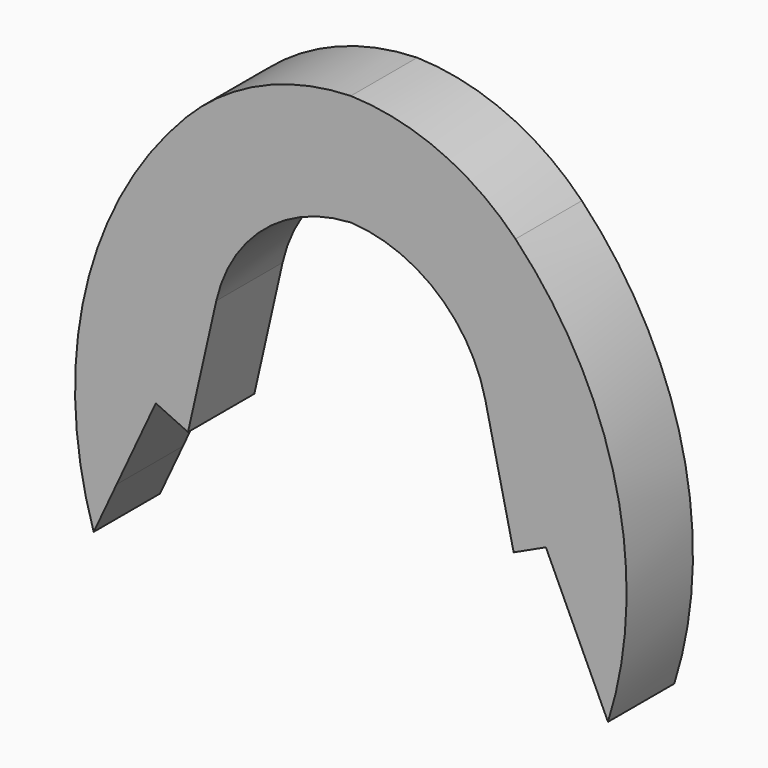
from build123d import *

# Parameters (mm, degrees)
F1_DEPTH = 44.45


with BuildPart() as f1:
    # F0 (on Front) → F1 (new body)
    with BuildSketch(Plane.XZ):
        with BuildLine():
            Line((-151.677966, -99.616145), (-139.392035, -73.201393))
            Line((-139.392035, -73.201393), (-118.382267, -28.030393))
            Line((-118.382267, -28.030393), (-101.10923, -36.064363))
            Line((-101.10923, -36.064363), (-85.963187, 30.797451))
            ThreePointArc((-85.963187, 30.797451), (-60.089526, 73.177661), (-13.831109, 91.224468))
            ThreePointArc((-13.831109, 91.224468), (32.427309, 73.177661), (58.300969, 30.797451))
            Line((58.300969, 30.797451), (73.447012, -36.064363))
            Line((73.447012, -36.064363), (90.720049, -28.030393))
            Line((90.720049, -28.030393), (111.729817, -73.201393))
            Line((111.729817, -73.201393), (124.015748, -99.616145))
            ThreePointArc((124.015748, -99.616145), (128.404708, 13.099114), (74.440966, 112.154185))
            ThreePointArc((74.440966, 112.154185), (34.109208, 140.212785), (-13.831109, 150.967401))
            ThreePointArc((-13.831109, 150.967401), (-61.771425, 140.212785), (-102.103183, 112.154185))
            ThreePointArc((-102.103183, 112.154185), (-156.066925, 13.099114), (-151.677966, -99.616145))
        make_face()
    extrude(amount=F1_DEPTH)


solid = f1.part
